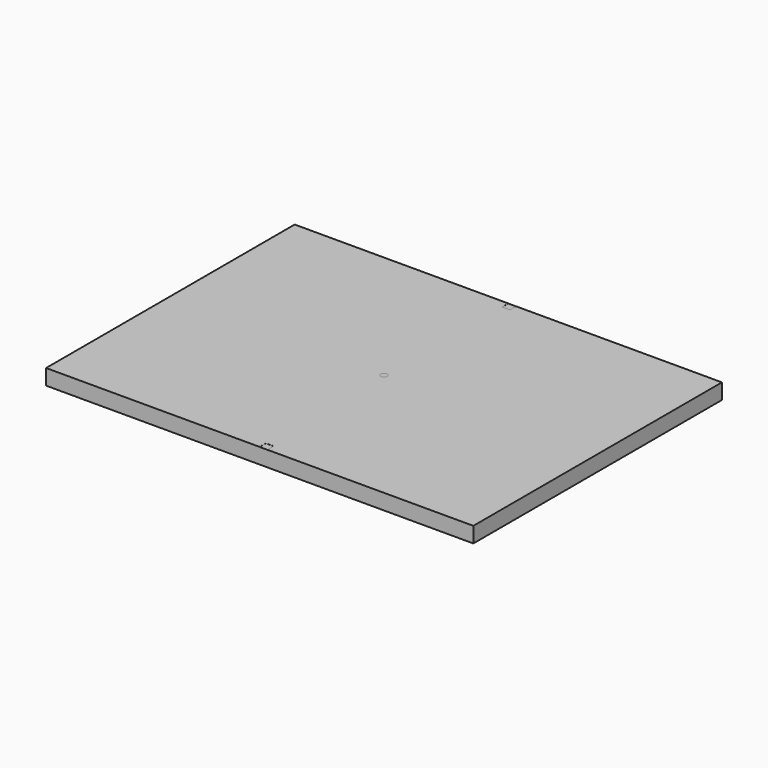
from build123d import *

# Parameters (mm, degrees)
F0_W     = 139.7
F0_H     = 101.6
F1_DEPTH = 5.08
F2_W     = 2.54
F2_H     = 2.54
F2_R     = 1.0473849044
F3_DEPTH = 0.0254
F5_DEPTH = 0.0254


with BuildPart() as f1:
    # F0 (on Top) → F1 (new body)
    with BuildSketch(Plane.XY):
        with Locations((69.85, 50.8)):
            Rectangle(F0_W, F0_H)
    extrude(amount=F1_DEPTH)

    # F2 (on face) → F3 (cut)
    with BuildSketch(Plane.XY.offset(5.08)):
        with Locations((71.12, 1.27)):
            Rectangle(F2_W, F2_H)
        with Locations((71.12, 100.33)):
            Rectangle(F2_W, F2_H)
        with Locations((69.85, 50.8)):
            Circle(F2_R)
    extrude(amount=-F3_DEPTH, mode=Mode.SUBTRACT)

    # F4 (on face) → F5 (cut)
    with BuildSketch(Plane(origin=(0, 0, 0), x_dir=(1, 0, 0), z_dir=(0, 0, -1))):
        with BuildLine():
            Line((129.4106504726, -50.8), (131.9506504726, -50.8))
            ThreePointArc((131.9506504726, -50.8), (130.6806504726, -49.53), (129.4106504726, -50.8))
        make_face()
    extrude(amount=-F5_DEPTH, mode=Mode.SUBTRACT)


solid = f1.part
